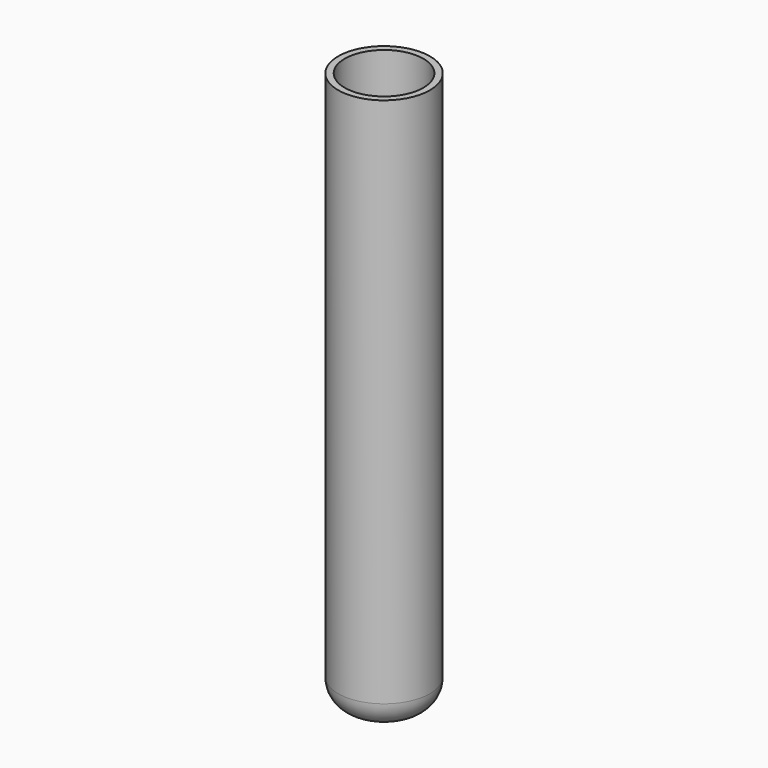
from build123d import *

# Parameters (mm, degrees)
SKETCH_R     = 7
PAD_DEPTH    = 85
SKETCH001_R  = 6
POCKET_DEPTH = 83
FILLET_R     = 4


with BuildPart() as part:
    # Sketch → Pad (new body)
    with BuildSketch(Plane.XY):
        Circle(SKETCH_R)
    extrude(amount=PAD_DEPTH)

    # Sketch001 (on Face3 of Pad) → Pocket (cut)
    with BuildSketch(Plane.XY.offset(85)):
        Circle(SKETCH001_R)
    extrude(amount=-POCKET_DEPTH, mode=Mode.SUBTRACT)

    # Fillet
    fillet_edges = [part.edges().sort_by_distance(p)[0] for p in [
        (-7, 0, 0),
    ]]
    fillet(fillet_edges, radius=FILLET_R)


solid = part.part
